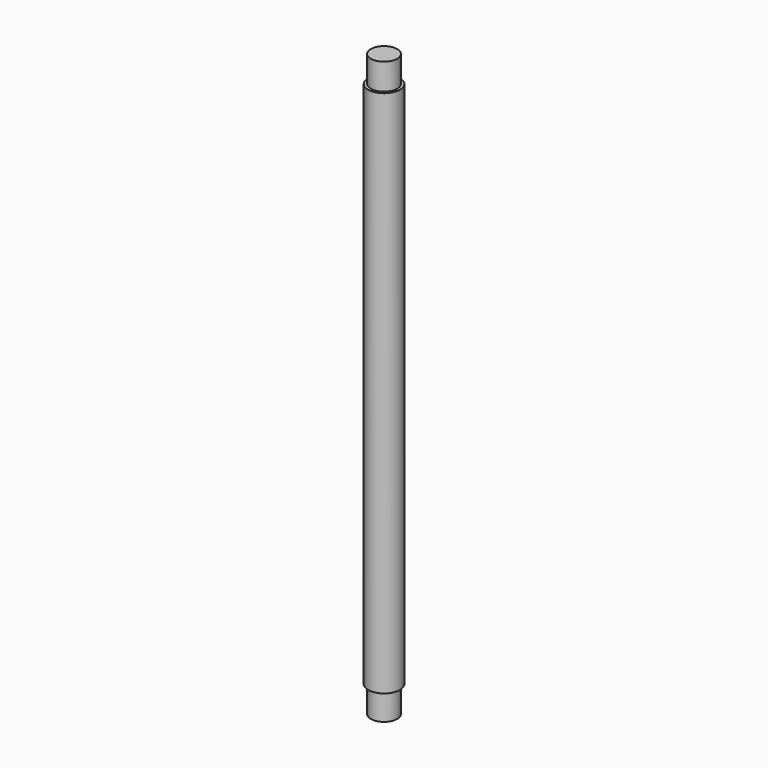
from build123d import *

# Parameters (mm, degrees)
F0_R     = 6
F1_DEPTH = 200
F3_R     = 5
F4_DEPTH = 10
F5_DEPTH = 210


with BuildPart() as f1:
    # F0 (on Top) → F1 (new body)
    with BuildSketch(Plane.XY):
        Circle(F0_R)
    extrude(amount=F1_DEPTH)

    # F3 (on face) → F4 (join)
    with BuildSketch(Plane.XY.offset(200)):
        Circle(F3_R)
    extrude(amount=F4_DEPTH)

    # F3 (on face) → F5 (join)
    with BuildSketch(Plane.XY.offset(200)):
        Circle(F3_R)
    extrude(amount=-F5_DEPTH)


solid = f1.part
